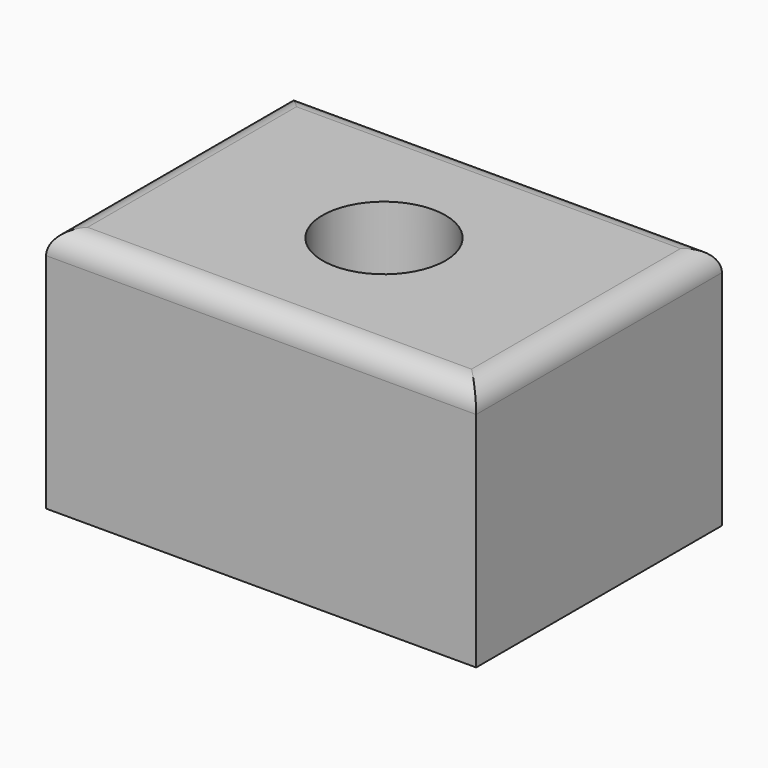
from build123d import *

# Parameters (mm, degrees)
F0_W     = 177.8
F0_H     = 127
F1_DEPTH = 50.8
F2_R     = 25.4
F3_DEPTH = 101.601
F4_R     = 9.525


with BuildPart() as f1:
    # F0 (on Top) → F1 (new body, symmetric)
    with BuildSketch(Plane.XY):
        Rectangle(F0_W, F0_H)
    extrude(amount=F1_DEPTH, both=True)

    # F2 (on face) → F3 (cut, through all)
    with BuildSketch(Plane.XY.offset(50.8)):
        Circle(F2_R)
    extrude(amount=-F3_DEPTH, mode=Mode.SUBTRACT)

    # F4
    f4_edges = [f1.edges().sort_by_distance(p)[0] for p in [
        (0, -63.5, 50.8),
        (-88.9, 0, 50.8),
        (88.9, 0, 50.8),
        (0, 63.5, 50.8),
    ]]
    fillet(f4_edges, radius=F4_R)


solid = f1.part
